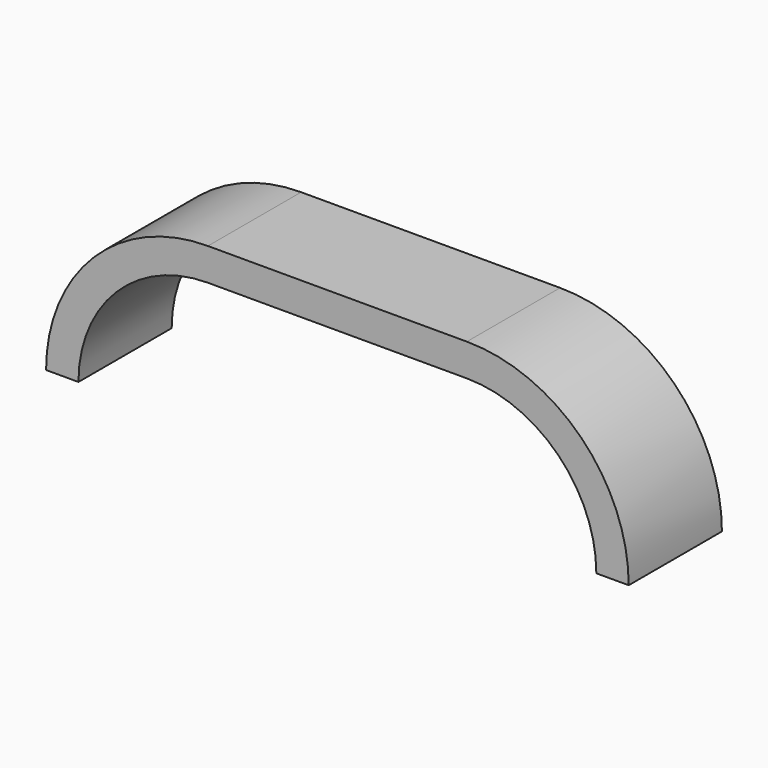
from build123d import *

# Parameters (mm, degrees)
F1_DEPTH = 18


with BuildPart() as f1:
    # F0 (on Front) → F1 (new body)
    with BuildSketch(Plane.XZ):
        with BuildLine():
            ThreePointArc((-42.488194, 0), (-36.63033, 14.142136), (-22.488194, 20))
            Line((-22.488194, 20), (-2.488194, 20))
            Line((-2.488194, 20), (17.511806, 20))
            ThreePointArc((17.511806, 20), (31.653942, 14.142136), (37.511806, 0))
            Line((37.511806, 0), (42.511806, 0))
            ThreePointArc((42.511806, 0), (35.189476, 17.67767), (17.511806, 25))
            Line((17.511806, 25), (-2.488194, 25))
            Line((-2.488194, 25), (-22.488194, 25))
            ThreePointArc((-22.488194, 25), (-40.165863, 17.67767), (-47.488194, 0))
            Line((-47.488194, 0), (-42.488194, 0))
        make_face()
    extrude(amount=F1_DEPTH)


solid = f1.part
